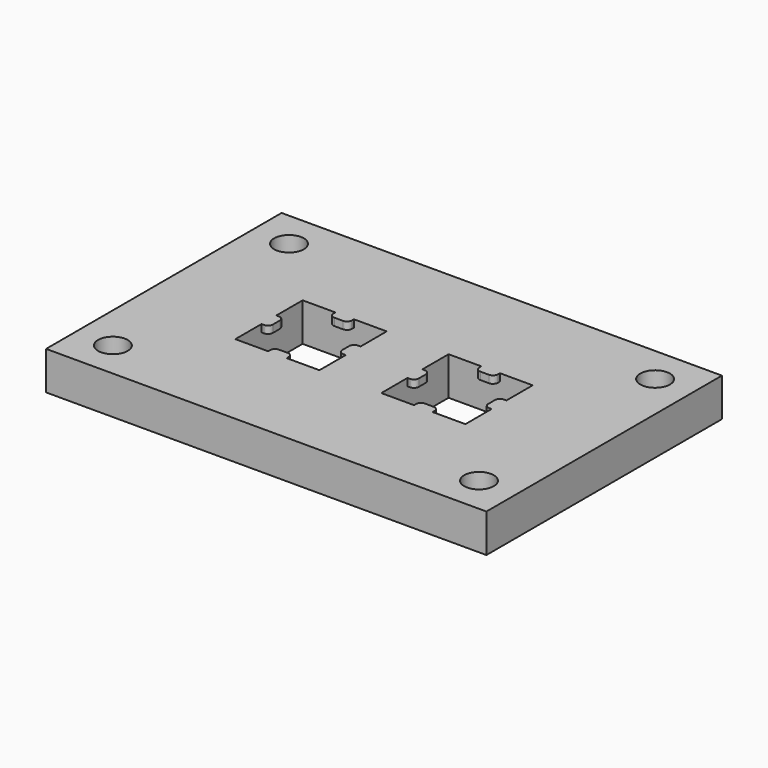
from build123d import *

# Parameters (mm, degrees)
CYLINDER002_R     = 1.2
CYLINDER002_DEPTH = 10
ARRAY006_X_COUNT  = 2
ARRAY006_X_PITCH  = 29.6
ARRAY006_Y_COUNT  = 2
ARRAY006_Y_PITCH  = 17.8
PAD_DEPTH         = 10
ARRAY005_X_COUNT  = 2
ARRAY005_X_PITCH  = 11.8
BOX010_W          = 35.6
BOX010_H          = 23.8
BOX010_DEPTH      = 0.6
CYLINDER_R        = 1.2
CYLINDER_DEPTH    = 10
ARRAY001_X_COUNT  = 2
ARRAY001_X_PITCH  = 29.6
ARRAY001_Y_COUNT  = 2
ARRAY001_Y_PITCH  = 17.8
BOX001_W          = 6.8
BOX001_H          = 6.8
BOX001_DEPTH      = 10
ARRAY_X_COUNT     = 2
ARRAY_X_PITCH     = 11.8
BOX_W             = 35.6
BOX_H             = 23.8
BOX_DEPTH         = 2.5


with BuildPart() as bolt_hole_array003:
    # Cylinder002 → Cylinder002 (new body)
    with BuildSketch(Plane.XY):
        Circle(CYLINDER002_R)
    extrude(amount=CYLINDER002_DEPTH)

    # Array006 X: bolt hole array003 ×2


with BuildPart() as bolt_hole_array003_1:
    add(bolt_hole_array003.part)
    with Locations(*[(i * ARRAY006_X_PITCH, 0, 0) for i in range(1, ARRAY006_X_COUNT)]):
        add(bolt_hole_array003.part)

    # Array006 Y: bolt hole array003 ×2


with BuildPart() as bolt_hole_array003_2:
    add(bolt_hole_array003_1.part)
    with Locations(*[(0, i * ARRAY006_Y_PITCH, 0) for i in range(1, ARRAY006_Y_COUNT)]):
        add(bolt_hole_array003_1.part)


with BuildPart() as bolt_hole_array003_3:
    # Array006 placement: moved
    add(bolt_hole_array003_2.part.moved(Location((3, 3, 0))))


with BuildPart() as hole_fusion001:
    # Sketch001 → Pad (new body)
    with BuildSketch(Plane.XY):
        with BuildLine():
            Line((-3.4, -0.75), (-3.4, -3.4))
            Line((-3.4, -3.4), (-0.75, -3.4))
            Line((-0.75, -3.4), (-0.75, -3.197425))
            ThreePointArc((-0.352575, -2.8), (-0.633597, -2.916403), (-0.75, -3.197425))
            Line((-0.352575, -2.8), (0.352575, -2.8))
            ThreePointArc((0.75, -3.197425), (0.633597, -2.916403), (0.352575, -2.8))
            Line((0.75, -3.197425), (0.75, -3.4))
            Line((3.4, -3.4), (0.75, -3.4))
            Line((3.4, -0.75), (3.4, -3.4))
            Line((3.197425, -0.75), (3.4, -0.75))
            ThreePointArc((2.8, -0.352575), (2.916403, -0.633597), (3.197425, -0.75))
            Line((2.8, 0.352575), (2.8, -0.352575))
            ThreePointArc((3.197425, 0.75), (2.916403, 0.633597), (2.8, 0.352575))
            Line((3.4, 0.75), (3.197425, 0.75))
            Line((3.4, 3.4), (3.4, 0.75))
            Line((0.75, 3.4), (3.4, 3.4))
            Line((0.75, 3.4), (0.75, 3.197425))
            ThreePointArc((0.352575, 2.8), (0.633597, 2.916403), (0.75, 3.197425))
            Line((0.352575, 2.8), (-0.352575, 2.8))
            ThreePointArc((-0.75, 3.197425), (-0.633597, 2.916403), (-0.352575, 2.8))
            Line((-0.75, 3.197425), (-0.75, 3.4))
            Line((-3.4, 3.4), (-0.75, 3.4))
            Line((-3.4, 0.75), (-3.4, 3.4))
            Line((-3.4, 0.75), (-3.197425, 0.75))
            ThreePointArc((-2.8, 0.352575), (-2.916403, 0.633597), (-3.197425, 0.75))
            Line((-2.8, 0.352575), (-2.8, -0.352575))
            ThreePointArc((-3.197425, -0.75), (-2.916403, -0.633597), (-2.8, -0.352575))
            Line((-3.197425, -0.75), (-3.4, -0.75))
        make_face()
    extrude(amount=PAD_DEPTH)

    # Array005 X: hole fusion001 ×2


with BuildPart() as hole_fusion001_1:
    add(hole_fusion001.part)
    with Locations(*[(i * ARRAY005_X_PITCH, 0, 0) for i in range(1, ARRAY005_X_COUNT)]):
        add(hole_fusion001.part)


with BuildPart() as hole_fusion001_2:
    # Array005 placement: moved
    add(hole_fusion001_1.part.moved(Location((11.9, 11.9, 0))))

    # Fusion006: union bolt hole array003
    add(bolt_hole_array003_3.part)


with BuildPart() as obj1:
    # Box010 → Box010 (new body)
    with BuildSketch(Plane.XY):
        with Locations((17.8, 11.9)):
            Rectangle(BOX010_W, BOX010_H)
    extrude(amount=BOX010_DEPTH)

    # Cut005: cut hole fusion001
    add(hole_fusion001_2.part, mode=Mode.SUBTRACT)


with BuildPart() as obj1_1:
    # Cut005 placement: moved
    add(obj1.part.moved(Location((0, 0, 2.5))))


with BuildPart() as bolt_hole_array:
    # Cylinder → Cylinder (new body)
    with BuildSketch(Plane.XY):
        Circle(CYLINDER_R)
    extrude(amount=CYLINDER_DEPTH)

    # Array001 X: bolt hole array ×2


with BuildPart() as bolt_hole_array_1:
    add(bolt_hole_array.part)
    with Locations(*[(i * ARRAY001_X_PITCH, 0, 0) for i in range(1, ARRAY001_X_COUNT)]):
        add(bolt_hole_array.part)

    # Array001 Y: bolt hole array ×2


with BuildPart() as bolt_hole_array_2:
    add(bolt_hole_array_1.part)
    with Locations(*[(0, i * ARRAY001_Y_PITCH, 0) for i in range(1, ARRAY001_Y_COUNT)]):
        add(bolt_hole_array_1.part)


with BuildPart() as bolt_hole_array_3:
    # Array001 placement: moved
    add(bolt_hole_array_2.part.moved(Location((3, 3, 0))))


with BuildPart() as hole_fusion:
    # Box001 → Box001 (new body)
    with BuildSketch(Plane.XY):
        with Locations((3.4, 3.4)):
            Rectangle(BOX001_W, BOX001_H)
    extrude(amount=BOX001_DEPTH)

    # Array X: hole fusion ×2


with BuildPart() as hole_fusion_1:
    add(hole_fusion.part)
    with Locations(*[(i * ARRAY_X_PITCH, 0, 0) for i in range(1, ARRAY_X_COUNT)]):
        add(hole_fusion.part)


with BuildPart() as hole_fusion_2:
    # Array placement: moved
    add(hole_fusion_1.part.moved(Location((8.5, 8.5, 0))))

    # Fusion: union bolt hole array
    add(bolt_hole_array_3.part)


with BuildPart() as obj2:
    # Box → Box (new body)
    with BuildSketch(Plane.XY):
        with Locations((17.8, 11.9)):
            Rectangle(BOX_W, BOX_H)
    extrude(amount=BOX_DEPTH)

    # Cut: cut hole fusion
    add(hole_fusion_2.part, mode=Mode.SUBTRACT)

    # Fusion007: union obj1
    add(obj1_1.part)


solid = obj2.part
